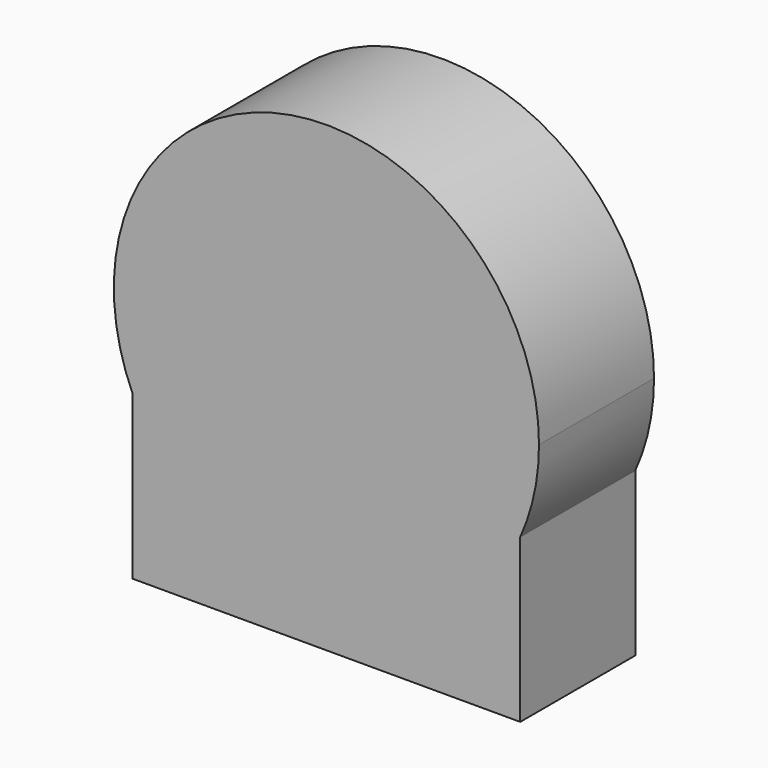
from build123d import *

# Parameters (mm, degrees)
F1_DEPTH = 11.5


with BuildPart() as f1:
    # F0 (on Front) → F1 (new body)
    with BuildSketch(Plane.XZ):
        with BuildLine():
            ThreePointArc((15.5, -6.98212), (16.62077, -3.570714), (17, 0))
            ThreePointArc((17, 0), (-3.570714, 16.62077), (-15.5, -6.98212))
            ThreePointArc((-15.5, -6.98212), (0, -17), (15.5, -6.98212))
        make_face()
        with BuildLine():
            ThreePointArc((15.5, -6.98212), (0, -17), (-15.5, -6.98212))
            Line((-15.5, -6.98212), (-15.5, -20))
            Line((-15.5, -20), (0, -20))
            Line((0, -20), (15.5, -20))
            Line((15.5, -20), (15.5, -6.98212))
        make_face()
    extrude(amount=-F1_DEPTH)


solid = f1.part
